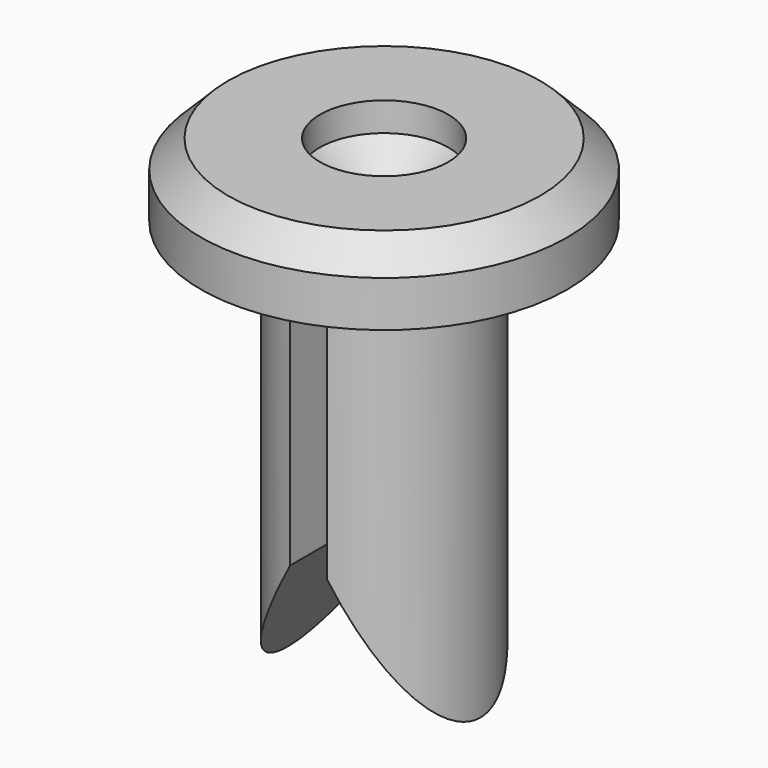
from build123d import *

# Parameters (mm, degrees)
SKETCH002_W  = 2
SKETCH002_H  = 25
PAD001_DEPTH = 15
PAD_DEPTH    = 7.5


with BuildPart() as pad001:
    # Sketch002 → Pad001 (new body, symmetric)
    with BuildSketch(Plane.XZ):
        with Locations((0, -13.5)):
            Rectangle(SKETCH002_W, SKETCH002_H)
    extrude(amount=PAD001_DEPTH, both=True)


with BuildPart() as pad:
    # Sketch001 → Pad (new body, symmetric)
    with BuildSketch(Plane.XZ):
        Polygon((8, -26.856406), (0, -13), (-8, -26.856406), align=None)
    extrude(amount=PAD_DEPTH, both=True)


with BuildPart() as cut001:
    # Sketch → Revolution (revolve)
    with BuildSketch(Plane.XZ):
        Polygon((3.5, 4), (8.5, 4), (10, 2.5), (10, 0), (5.25, 0), (5.25, -23), (1.8, -23), (1.8, 1), (3.5, 2.426469), align=None)
    revolve(axis=Axis((0, 0, 0), (0, 0, 1)))

    # Cut: cut Pad
    add(pad.part, mode=Mode.SUBTRACT)

    # Cut001: cut Pad001
    add(pad001.part, mode=Mode.SUBTRACT)


solid = cut001.part
